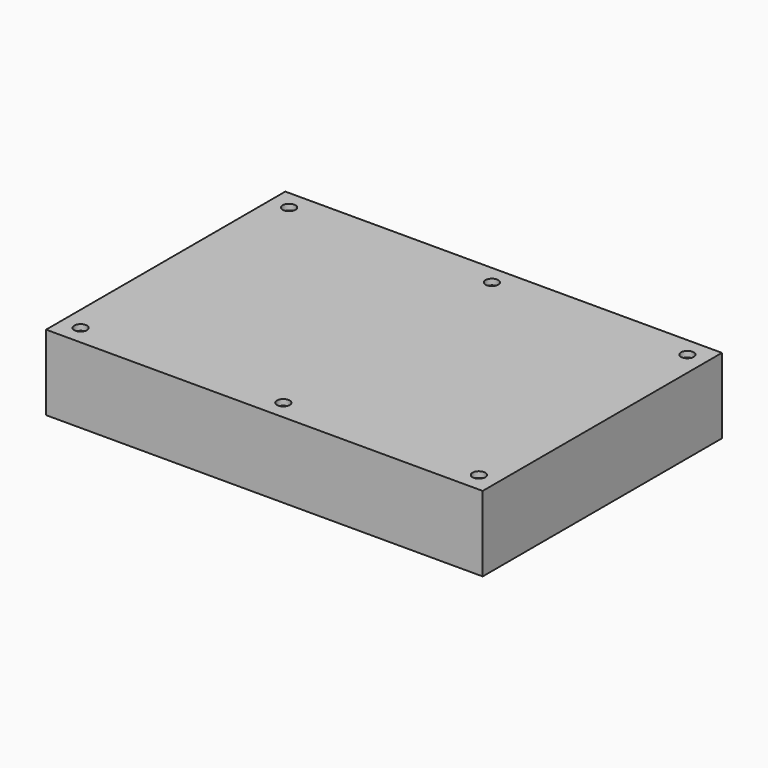
from build123d import *

# Parameters (mm, degrees)
SKETCH009_W             = 120.6
SKETCH009_H             = 82.6
PAD006_DEPTH            = 1.6
SKETCH010_W             = 120.6
SKETCH010_H             = 82.6
SKETCH010_W_2           = 118.6
SKETCH010_H_2           = 80.6
PAD007_DEPTH            = 20.8
SKETCH011_W             = 11.5
SKETCH011_H             = 9
PAD008_DEPTH            = 14.8
SKETCH012_W             = 11.5
SKETCH012_H             = 2
PAD009_DEPTH            = 22.5
SKETCH014_R             = 1.75
POCKET004_DEPTH         = 1.6
SKETCH020_W             = 11.5
SKETCH020_H             = 20
PAD013_DEPTH            = 22.1
BODY003_PLACEMENT_ANGLE = 180


with BuildPart() as part:
    # Sketch009 → Pad006 (new body)
    with BuildSketch(Plane.XY):
        Rectangle(SKETCH009_W, SKETCH009_H)
    extrude(amount=PAD006_DEPTH)

    # Sketch010 → Pad007 (join)
    with BuildSketch(Plane.XY):
        Rectangle(SKETCH010_W, SKETCH010_H)
        Rectangle(SKETCH010_W_2, SKETCH010_H_2, mode=Mode.SUBTRACT)
    extrude(amount=PAD007_DEPTH)

    # Sketch011 → Pad008 (join)
    with BuildSketch(Plane.XY):
        with Locations((-51.95, -27.2)):
            Rectangle(SKETCH011_W, SKETCH011_H)
    extrude(amount=PAD008_DEPTH)

    # Sketch012 → Pad009 (join)
    with BuildSketch(Plane.XY):
        with Locations((-51.95, -21.7)):
            Rectangle(SKETCH012_W, SKETCH012_H)
    extrude(amount=PAD009_DEPTH)

    # Sketch014 → Pocket004 (cut)
    with BuildSketch(Plane.XY):
        with Locations((-55, 36)):
            Circle(SKETCH014_R)
        with Locations((1, 36)):
            Circle(SKETCH014_R)
        with Locations((55, 36)):
            Circle(SKETCH014_R)
        with Locations((55, -36)):
            Circle(SKETCH014_R)
        with Locations((1, -36)):
            Circle(SKETCH014_R)
        with Locations((-55, -36)):
            Circle(SKETCH014_R)
    extrude(amount=POCKET004_DEPTH, mode=Mode.SUBTRACT)

    # Sketch020 → Pad013 (join)
    with BuildSketch(Plane.XY):
        with Locations((-51.95, 21.7)):
            Rectangle(SKETCH020_W, SKETCH020_H)
    extrude(amount=PAD013_DEPTH)


with BuildPart() as part_1:
    # Body003 placement: moved
    add(part.part.moved(Location((0, 0, 57.9))).rotate(Axis((0, 0, 57.9), (1, 0, 0)), BODY003_PLACEMENT_ANGLE))


solid = part_1.part
